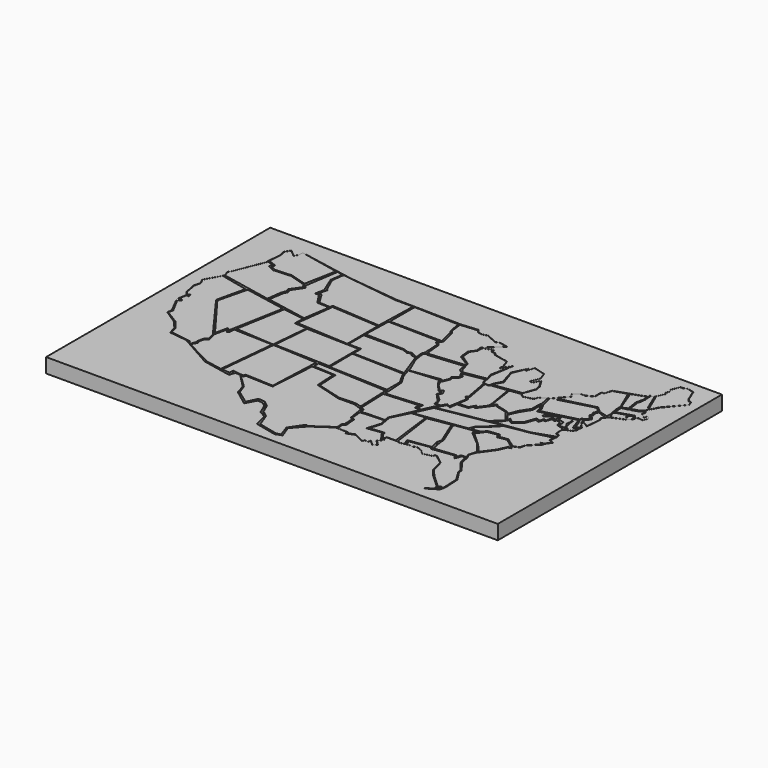
from build123d import *

# Parameters (mm, degrees)
F1_DEPTH = 2.54
F3_W     = 152.4233669043
F3_H     = 92.1892821789
F4_DEPTH = 2.54
F2_W     = 158.5824540816
F2_H     = 98.3682549559
F5_DEPTH = 2.54
F6_DEPTH = 2.54


with BuildPart() as f1:
    # F0 (on Top) → F1 (new body)
    with BuildSketch(Plane.XY):
        Polygon((84.8736539483, 14.1414105892), (85.1722210646, 14.1137503088), (85.0820022567, 16.5194555561), (85.6190174818, 17.1548388898), (85.5037197471, 20.4697679728), (84.5813006163, 21.0174527019), (83.67146559, 26.7047771949), (80.3293138742, 27.7990177274), (74.7444555163, 27.7582518756), (65.4091835022, 30.489532277), (65.0015324354, 37.7865359187), (57.3784038424, 38.0718931556), (56.3592687249, 22.0103338361), (46.6978736222, 22.4179886281), (46.3717505336, 21.7249765992), (45.5564446747, 21.6026809067), (50.1969037666, 17.1075227029), (51.3844042597, 13.8418917523), (56.1962090433, 10.3514352813), (57.8798678478, 13.9738477203), (60.2727457881, 13.7349618599), (62.2702501714, 12.1451122686), (63.656270504, 8.9246472344), (65.8983588219, 7.1903583594), (67.6567181945, 2.5206308346), (74.4307041168, 0.9064042824), (75.9008005261, 1.3099613134), (74.4883567095, 5.374353379), (77.6879787445, 10.0440802053), (78.5527452826, 9.7846509889), align=None)
    extrude(amount=F1_DEPTH)


with BuildPart() as f1b:
    # F0 (on Top) → F1, piece 2 (new body)
    with BuildSketch(Plane.XY):
        Polygon((39.2019487917, 21.3731527328), (41.959669441, 21.1166720837), (42.0232772706, 22.6241739839), (45.8465404809, 22.1621077508), (46.2218225002, 22.9126755148), (56.0278088078, 22.4989198132), (56.7911989107, 40.5912213027), (41.1993376911, 41.4004512131), align=None)
    extrude(amount=F1_DEPTH)


with BuildPart() as f1c:
    # F0 (on Top) → F1, piece 3 (new body)
    with BuildSketch(Plane.XY):
        Polygon((32.8148268163, 22.4877819419), (38.6916063726, 21.3731527328), (40.6889952719, 41.4004512131), (27.0474292338, 41.8383069336), (26.9321767444, 39.8461197184), (26.2197759002, 39.4209623337), (25.918809697, 40.0605127215), (25.3544989973, 40.2674265206), (24.4704131037, 36.1855849624), (25.3168791533, 33.1194959581), (24.2214407772, 32.1595259011), (23.8461568952, 30.36352247), (24.1191011788, 29.3748573399), (23.0687819421, 27.5756958872), align=None)
    extrude(amount=F1_DEPTH)


with BuildPart() as f1d:
    # F0 (on Top) → F1, piece 4 (new body)
    with BuildSketch(Plane.XY):
        Polygon((14.4826462492, 29.9436412752), (21.9434835017, 28.8944467902), (21.7278554059, 28.4238435393), (22.8912197053, 28.0225295573), (23.5356800258, 29.5957718045), (23.3082231134, 30.2023217082), (23.8579101861, 32.4958413839), (24.9004177749, 33.2540310919), (24.1191011788, 36.0841342312), (12.082144618, 52.5437779725), (14.3594136462, 62.5853091478), (4.6070283484, 64.7970042172), (1.7106930027, 59.5505945385), (2.6563503779, 57.6592795551), (2.1497486159, 55.4302297533), (2.8589910362, 51.2423217297), (3.8384213112, 50.0264763832), (4.6827574261, 50.6343990564), (5.0363440544, 49.3536293507), (4.1137486696, 49.6896281838), (3.6629268434, 46.9846986234), (4.9252272584, 46.6691255569), (5.0153918564, 46.308465302), (4.0235840715, 45.5420687795), (6.8637602963, 40.222376585), (6.4580207691, 38.5994166136), (11.371976696, 35.5789139867), (13.9867411926, 32.4231609702), align=None)
    extrude(amount=F1_DEPTH)


with BuildPart() as f1e:
    # F0 (on Top) → F1, piece 5 (new body)
    with BuildSketch(Plane.XY):
        Polygon((12.6084219664, 52.4472929537), (24.0978561342, 37.0402559638), (25.0490423825, 41.4319011491), (25.3531355411, 41.3592718542), (26.0339658707, 40.2741990983), (29.6646207571, 59.8889775574), (15.1317678392, 62.6406222582), align=None)
    extrude(amount=F1_DEPTH)


with BuildPart() as f1f:
    # F0 (on Top) → F1, piece 6 (new body)
    with BuildSketch(Plane.XY):
        Polygon((4.9907113425, 65.410785377), (22.5986987352, 61.8775077164), (23.2802983373, 67.0011863112), (23.9050984383, 68.534784019), (23.5074982047, 69.7843804955), (26.0066967458, 73.3059793711), (25.0410977751, 74.6691823006), (19.2475020885, 76.429978013), (13.1699051708, 76.0323777795), (10.9547069296, 77.1683752537), (11.181906797, 78.4747749567), (8.9099081233, 79.1563764215), (8.9667085558, 78.0771747231), (8.6827082559, 77.9635757208), (4.820310045, 68.3643817902), (4.1955108754, 67.4555823207), align=None)
    extrude(amount=F1_DEPTH)


with BuildPart() as f1g:
    # F0 (on Top) → F1, piece 7 (new body)
    with BuildSketch(Plane.XY):
        Polygon((19.2693395439, 76.9179702953), (25.0410977751, 75.1638114452), (27.1157585084, 86.2862020731), (13.2147632539, 89.1747251153), (13.1545858458, 87.4897539616), (12.3722786084, 86.1658528447), (9.9050039425, 88.2118865848), (8.9232294323, 86.4870214634), (9.3851434067, 84.1774567962), (9.0241273865, 79.7567293048), (11.9727887213, 78.6308795214), (11.811953038, 77.344186604), (13.5912461719, 76.5465058363), align=None)
    extrude(amount=F1_DEPTH)


with BuildPart() as f1h:
    # F0 (on Top) → F1, piece 8 (new body)
    with BuildSketch(Plane.XY):
        Polygon((24.0978561342, 67.2751824708), (23.2470091432, 61.8775077164), (37.6948975027, 59.141950172), (39.1093893427, 68.3617481948), (34.8049812019, 68.5642436147), (32.3360413313, 72.3571032286), (30.9047698975, 72.3928883672), (31.5488427877, 75.613245368), (29.154188931, 81.4692750573), (29.8207694997, 85.8141132781), (27.7824867517, 86.2340778112), (25.9788638109, 74.4778847025), (26.8117636442, 73.4084025025), (24.3070423603, 69.7228834033), (24.7006416321, 68.2558342814), align=None)
    extrude(amount=F1_DEPTH)


with BuildPart() as f1i:
    # F0 (on Top) → F1, piece 9 (new body)
    with BuildSketch(Plane.XY):
        Polygon((39.1708500683, 69.7725042701), (56.3620701432, 68.5642436147), (56.7637554785, 83.1233506271), (50.4713505507, 83.1214636564), (30.2390567958, 85.8141132781), (29.6646207571, 81.5106704831), (31.9664441049, 76.3074681163), (32.412737608, 76.3393491507), (31.5839089453, 72.8646591306), (32.7952690423, 72.9284137487), (35.2179929614, 69.0074339509), (39.1070954502, 68.7524080276), align=None)
    extrude(amount=F1_DEPTH)


with BuildPart() as f1j:
    # F0 (on Top) → F1, piece 10 (new body)
    with BuildSketch(Plane.XY):
        Polygon((30.2390567958, 59.799220413), (27.218202129, 42.6238030195), (40.7980233431, 41.6542105377), (42.0063845813, 54.8852048814), (37.6391112804, 55.1721043885), (37.7506837249, 58.6467944086), align=None)
    extrude(amount=F1_DEPTH)


with BuildPart() as f1k:
    # F0 (on Top) → F1, piece 11 (new body)
    with BuildSketch(Plane.XY):
        Polygon((60.8209259808, 41.2069000304), (60.8209259808, 54.1655123234), (42.3973947763, 54.6738170087), (41.3409657776, 41.8383069336), align=None)
    extrude(amount=F1_DEPTH)


with BuildPart() as f1l:
    # F0 (on Top) → F1, piece 12 (new body)
    with BuildSketch(Plane.XY):
        Polygon((38.0589552224, 55.7386763394), (56.4654916525, 54.6738170087), (56.4228408039, 68.0631436505), (39.6999493241, 69.1316723824), align=None)
    extrude(amount=F1_DEPTH)


with BuildPart() as f1m:
    # F0 (on Top) → F1, piece 13 (new body)
    with BuildSketch(Plane.XY):
        Polygon((61.2623132765, 51.2467893313), (79.4380009174, 50.8505217731), (78.3540830016, 53.9122112095), (76.4931268669, 58.9738897979), (76.2656778097, 59.8591566086), (74.6305137873, 60.2344423532), (73.6789032817, 61.0520243645), (72.5262388587, 60.6499351561), (70.6364139915, 61.4005029202), (56.8488053977, 61.4005029202), (56.8488053977, 54.6738170087), (61.3568648696, 54.6738170087), align=None)
    extrude(amount=F1_DEPTH)


with BuildPart() as f1n:
    # F0 (on Top) → F1, piece 14 (new body)
    with BuildSketch(Plane.XY):
        Polygon((57.118011452, 71.9196347594), (56.8488053977, 62.1622465551), (70.7938904487, 61.8582148776), (72.4851638079, 61.1784756184), (73.6789032817, 61.5212330087), (76.1548869435, 60.3739717864), (75.9084224701, 62.9511475563), (76.3552188873, 63.8234615326), (76.0148018599, 69.5679709315), (74.8233497143, 70.5667734146), (75.2535880597, 71.5242417046), align=None)
    extrude(amount=F1_DEPTH)


with BuildPart() as f1o:
    # F0 (on Top) → F1, piece 15 (new body)
    with BuildSketch(Plane.XY):
        Polygon((57.3464373787, 83.1233506271), (57.3145076632, 72.3312646151), (75.6550505757, 72.107963264), (74.3476673961, 77.6200294495), (73.8066807389, 78.3413425088), (73.0340114822, 82.6148669094), align=None)
    extrude(amount=F1_DEPTH)


with BuildPart() as f1p:
    # F0 (on Top) → F1, piece 16 (new body)
    with BuildSketch(Plane.XY):
        Polygon((76.5266343951, 69.7154477239), (77.0867094398, 63.8496279716), (89.6034687757, 65.06190449), (89.3913209438, 65.7286569476), (85.5423361063, 68.0925920606), (85.1706787944, 71.7457979918), (86.6233184934, 73.6438781023), (86.4175856113, 75.8068487048), (91.6779786348, 80.6458294392), (88.6409580708, 81.1553969979), (87.4791443348, 80.6662142277), (83.6176946759, 82.4563056231), (81.8881690502, 81.9662734866), (80.2451148629, 82.225702703), (79.4380009174, 83.2057669759), (73.5864341259, 82.6869085431), (74.0764662623, 78.5936936736), (75.0565305352, 77.2965475917), (76.2383788824, 72.107963264), (75.4600912333, 70.7819908857), align=None)
    extrude(amount=F1_DEPTH)


with BuildPart() as f1q:
    # F0 (on Top) → F1, piece 17 (new body)
    with BuildSketch(Plane.XY):
        Polygon((61.2623132765, 50.8757866919), (61.3568648696, 40.9132875502), (81.9673314691, 40.1776470244), (81.9673314691, 45.7933209836), (80.1666975021, 49.0617789328), (79.6432346106, 50.2789951861), align=None)
    extrude(amount=F1_DEPTH)


with BuildPart() as f1r:
    # F0 (on Top) → F1, piece 18 (new body)
    with BuildSketch(Plane.XY):
        Polygon((80.4974622818, 28.5177163857), (82.5212970376, 27.8899148107), (82.0718871024, 39.4380627742), (57.650167495, 40.5912213027), (57.6016902924, 38.5551229119), (65.5764043331, 38.0718931556), (65.9898283479, 30.6715530425), (74.7444555163, 28.2938312739), align=None)
    extrude(amount=F1_DEPTH)


with BuildPart() as f1s:
    # F0 (on Top) → F1, piece 19 (new body)
    with BuildSketch(Plane.XY):
        Polygon((92.5004854798, 27.4411197752), (96.5231433511, 36.2204760313), (96.3136181235, 36.3276563585), (94.6117639542, 36.5587025881), (94.7131961584, 38.4070724249), (82.7764570713, 37.542976439), (83.1722393632, 27.3728575558), (84.3663141131, 27.0265769213), (84.4737812877, 25.5698096007), (86.0857740045, 25.5459267646), (86.3007083535, 25.6653353572), (92.7931753383, 25.8071793051), align=None)
    extrude(amount=F1_DEPTH)


with BuildPart() as f1t:
    # F0 (on Top) → F1, piece 20 (new body)
    with BuildSketch(Plane.XY):
        Polygon((97.4363254176, 13.7369123446), (99.4542911649, 12.0993629098), (100.3628075123, 13.0557008088), (98.6143375247, 14.7167387833), (99.9643355608, 16.4188183844), (99.5028780877, 16.4253488147), (99.0717560053, 16.2275526673), (97.2432047129, 18.7237579376), (97.2432047129, 19.4330010563), (91.8759772887, 18.7573548311), (93.3153554797, 23.3261287212), (92.9210087716, 25.5275683233), (84.6282765269, 25.026248768), (84.981008842, 21.0988657211), (86.0134214163, 20.7943543792), (86.3570138046, 16.9687368688), (85.4778513312, 16.2275526673), (85.8421325684, 13.8408001512), (89.4571344005, 13.789641553), (89.466907084, 13.1379365921), (91.4047956467, 13.9010455459), (91.434918344, 14.2022725195), (95.744415968, 12.1992638229), (95.9867871325, 12.9633825272), (97.1985384822, 12.6885389909), align=None)
    extrude(amount=F1_DEPTH)


with BuildPart() as f1u:
    # F0 (on Top) → F1, piece 21 (new body)
    with BuildSketch(Plane.XY):
        Polygon((99.5622426271, 18.1389702704), (102.6472523808, 18.1389702704), (100.6685820898, 33.8572160825), (95.8729237318, 33.4265008569), (92.9343104362, 27.536323294), (93.6884880066, 23.3261287212), (92.5004854798, 19.3502940238), (97.5729376078, 19.8058690876), (97.5729376078, 18.9441926777), (99.2962867022, 16.7846847326), align=None)
    extrude(amount=F1_DEPTH)


with BuildPart() as f1v:
    # F0 (on Top) → F1, piece 22 (new body)
    with BuildSketch(Plane.XY):
        Polygon((77.0031064749, 58.9738897979), (79.6432346106, 52.8970398009), (89.8931995034, 54.2953237891), (90.437926352, 53.7457987666), (91.4329737425, 55.9391565621), (91.0249524518, 57.2135052376), (92.774219811, 58.2364350557), (92.774219811, 59.2158660293), (92.3013910651, 59.3678466976), (91.5752574801, 60.8707666397), (90.24656564, 61.7761909962), (89.7640958428, 64.3241107464), (77.5940716267, 63.1602481008), (77.0671584651, 63.5193080391), (76.4931268669, 62.676928336), align=None)
    extrude(amount=F1_DEPTH)


with BuildPart() as f1w:
    # F0 (on Top) → F1, piece 23 (new body)
    with BuildSketch(Plane.XY):
        Polygon((91.7081609368, 61.1544027925), (99.3654504418, 62.5141039491), (98.5684990883, 64.7455528378), (100.1649647951, 72.4845454097), (98.2482656837, 69.3652108312), (98.003976047, 69.8537826538), (98.2670560479, 70.549055934), (97.1314311028, 73.8807097077), (96.0961803794, 73.8807097077), (92.1017602086, 74.7514590621), (91.9586271048, 75.467094779), (90.312667191, 75.6102204323), (90.1337638497, 76.719455421), (87.0207548141, 75.6460055709), (86.9849696755, 73.7495720387), (85.661046207, 71.7457979918), (85.9830826521, 68.4896558523), (89.740164578, 65.9133717418), (90.77783674, 62.2994154692), align=None)
    extrude(amount=F1_DEPTH)


with BuildPart() as f1x:
    # F0 (on Top) → F1, piece 24 (new body)
    with BuildSketch(Plane.XY):
        Polygon((97.5892469287, 42.1782918274), (99.3354097009, 42.0879758894), (100.3239303827, 43.8426062465), (101.4819726194, 43.1987910347), (102.523393929, 49.3536293507), (101.3865917921, 50.2927266061), (101.975375402, 51.0054647831), (100.4247092301, 59.5819801092), (100.0520214438, 59.5863461494), (99.2402136326, 61.7698468268), (92.273281071, 60.510199262), (92.859454453, 59.5819801092), (93.4095233679, 59.3528328), (93.0794849992, 57.9743944108), (91.6126444936, 56.9109357893), (91.8693393469, 55.9391565621), (90.5677899718, 52.8970398009), (91.3479551673, 51.1129807475), (93.5963010341, 48.935034521), (94.6042835712, 49.4371913373), (95.3417529721, 47.9568643687), (94.6470957057, 46.7073715954), (96.9114500364, 44.5139181581), (97.6231694222, 43.128054589), align=None)
    extrude(amount=F1_DEPTH)


with BuildPart() as f1y:
    # F0 (on Top) → F1, piece 25 (new body)
    with BuildSketch(Plane.XY):
        Polygon((111.736590242, 51.1129807475), (111.3505735993, 51.6161344534), (107.6123258932, 46.5186936291), (106.9864869668, 47.3344438852), (106.1923056841, 45.5928184092), (102.3810374058, 45.2717878693), (102.0550273072, 42.696375289), (100.5499213934, 43.2271026075), (98.7966358662, 40.0734357536), (115.2137517929, 42.9424457252), (118.7498047948, 46.3259741664), (116.8156787753, 48.6803829008), (115.6291923726, 50.1500564927), align=None)
    extrude(amount=F1_DEPTH)


with BuildPart() as f1z:
    # F0 (on Top) → F1, piece 26 (new body)
    with BuildSketch(Plane.XY):
        Polygon((118.9776882529, 43.2477488293), (98.7966358662, 39.7209636867), (95.9867871325, 33.6755398888), (113.7279570103, 36.1826717854), (114.5882084966, 38.2826961577), (118.9776882529, 42.0273207128), align=None)
    extrude(amount=F1_DEPTH)


with BuildPart() as f1ba:
    # F0 (on Top) → F1, piece 27 (new body)
    with BuildSketch(Plane.XY):
        Polygon((103.0099391937, 60.5171360075), (112.2772693634, 61.8410408497), (113.7215271592, 65.8552572131), (113.4147965275, 67.5517409639), (111.736590242, 70.5667734146), (110.34469375, 68.0631436505), (109.4201156011, 68.577164174), (110.7126548886, 71.6499686241), (109.7498163581, 74.2977783084), (105.6577414274, 75.4411444068), (104.8152595758, 72.7331638336), (104.3940186501, 72.853513062), (104.514375329, 73.996886611), (102.468341589, 69.1826939583), (104.2736619711, 63.6463612318), (102.8294041753, 60.9985552728), align=None)
    extrude(amount=F1_DEPTH)


with BuildPart() as f1bb:
    # F0 (on Top) → F1, piece 28 (new body)
    with BuildSketch(Plane.XY):
        Polygon((82.5304612517, 45.8805821836), (82.9943269491, 38.114476949), (95.4426005483, 39.1099341214), (95.3203067183, 36.8270725012), (96.6655611992, 36.8168838322), (98.9994652917, 41.8383069336), (97.3136276007, 41.7687669396), (97.1439555287, 43.465513736), (94.2594856024, 46.6166138649), (94.5872440934, 47.9357205331), (94.2789763212, 48.5388562083), (93.6289280653, 48.324406147), (91.1630096785, 51.0182653118), (89.8931995034, 52.8970398009), (90.1715159416, 53.3951297402), (89.0582501888, 53.5216368735), (79.4380009174, 52.6866875589), (80.5316418409, 49.2709837854), align=None)
    extrude(amount=F1_DEPTH)


with BuildPart() as f1bc:
    # F0 (on Top) → F1, piece 29 (new body)
    with BuildSketch(Plane.XY):
        Polygon((106.9864869668, 48.056807369), (107.6629981399, 47.5380085409), (109.612833681, 50.1967866823), (109.612833681, 51.8355183303), (108.1004366279, 60.5843402445), (102.649576962, 59.9042102695), (102.2452200246, 59.3528328), (100.905738771, 59.5819801092), (102.441072464, 51.0902665555), (102.1902263165, 50.3755286336), (102.9139906168, 49.6115572751), (102.441072464, 45.898925513), (105.835840106, 46.0463576019), align=None)
    extrude(amount=F1_DEPTH)


with BuildPart() as f1bd:
    # F0 (on Top) → F1, piece 30 (new body)
    with BuildSketch(Plane.XY):
        Polygon((115.7198622823, 50.6098270416), (116.8156787753, 49.7809387744), (118.0336251855, 52.9196116328), (119.8608313825, 55.7636059821), (120.3074753284, 55.8911934495), (120.0318818115, 56.2504160426), (120.1169066098, 59.4017878175), (120.3239538816, 59.988959539), (119.5893883705, 63.7903362513), (118.2481060701, 62.7613121491), (117.4174631133, 62.473492386), (116.870973623, 60.9236860446), (113.6887868862, 60.1163385509), (112.0909997345, 61.1428829904), (108.5883045266, 60.6478920208), (109.9864206249, 50.7544295977), (110.612383411, 51.7287228272), (111.2402585882, 52.1526687165), (111.6518846032, 51.6161344534), align=None)
    extrude(amount=F1_DEPTH)


with BuildPart() as f1be:
    # F0 (on Top) → F1, piece 31 (new body)
    with BuildSketch(Plane.XY):
        Polygon((120.7470148802, 59.4017878175), (120.7470148802, 55.7636059821), (118.5855194926, 52.3993000388), (117.1433329582, 49.2366105318), (118.9776882529, 46.8456186354), (119.1041991115, 47.8450283408), (120.9006085992, 46.5166978538), (123.2906877995, 48.581790179), (124.6547849345, 52.4502751685), (126.1752510869, 52.0768345471), (126.5064160422, 53.4251750232), (127.4141818285, 53.2022193074), (127.976462245, 55.4915480316), (128.7834462822, 55.1423784945), (129.1955120066, 55.4206082707), (129.1955120066, 56.465712753), (128.6994218832, 56.8972751498), (125.0345838004, 54.4227498033), (124.7525547337, 56.4184667381), (122.1333207732, 55.7636059821), (121.8739002943, 56.8012050779), (121.6454401686, 57.714972645), align=None)
    extrude(amount=F1_DEPTH)


with BuildPart() as f1bf:
    # F0 (on Top) → F1, piece 32 (new body)
    with BuildSketch(Plane.XY):
        Polygon((129.494222972, 54.3646588922), (129.1955120066, 54.3646588922), (128.3194257769, 54.6735825972), (127.5910619809, 52.6079933227), (126.7373412848, 52.6079933227), (126.4160275459, 51.2318946421), (124.9915267759, 51.5645100823), (123.885772282, 48.4286669288), (120.7470148802, 46.0206302193), (119.3423802056, 46.9230782788), (118.7498047948, 45.5928184092), (116.1409988999, 43.2271026075), (128.6994218832, 45.0018233868), (135.8657777309, 47.4849827588), (135.600495818, 48.5306001558), (134.4172430061, 48.6803829008), (134.2910677195, 52.0448759199), (131.4690560103, 52.9196116328), (131.4690560103, 54.0929708016), (131.0058226956, 54.6967726413), (129.8052406363, 54.8487490192), align=None)
    extrude(amount=F1_DEPTH)


with BuildPart() as f1bg:
    # F0 (on Top) → F1, piece 33 (new body)
    with BuildSketch(Plane.XY):
        Polygon((128.6994218832, 44.726959343), (120.1169066098, 43.2271026075), (119.6044608951, 42.1510338783), (114.8039249028, 38.0139648914), (114.8039249028, 36.3138882782), (117.8402267057, 36.8445040202), (118.7498047948, 38.2602363825), (122.8988543153, 38.7146361172), (123.4285845006, 37.5010409333), (126.3636499643, 38.0139648914), (129.8506798848, 35.5232567072), (131.7537406206, 36.1826717854), (132.2067528963, 38.0139648914), (135.600495818, 41.517406702), (134.4172430061, 41.8931134045), (135.7091609559, 42.1413218426), (136.8974894285, 43.9909212291), (135.4363262653, 44.6361079813), (135.600495818, 46.4778197437), align=None)
    extrude(amount=F1_DEPTH)


with BuildPart() as f1bh:
    # F0 (on Top) → F1, piece 34 (new body)
    with BuildSketch(Plane.XY):
        Polygon((121.7645183205, 30.4322820157), (124.6764585376, 27.1031651646), (127.6963471945, 31.2210580746), (129.2220486108, 34.5885850212), (129.8273323297, 34.3143534437), (129.6567469835, 35.0154004991), (126.2614595258, 37.5053608513), (123.0910047889, 36.9473546743), (122.5345879793, 38.3151806891), (119.0052628517, 37.6565977931), (116.9141423168, 34.8051647096), align=None)
    extrude(amount=F1_DEPTH)


with BuildPart() as f1bi:
    # F0 (on Top) → F1, piece 35 (new body)
    with BuildSketch(Plane.XY):
        Polygon((116.2261217832, 34.8051647096), (116.9141423168, 36.1826717854), (109.612833681, 35.1508715212), (109.4562067615, 34.8051647096), (112.9162088036, 26.3494346291), (112.9162088036, 24.9897297472), (113.7279570103, 20.9042560309), (121.2619692087, 21.7075292021), (121.7645183205, 20.7235198468), (122.1656501293, 22.4706381559), (124.1336688399, 22.4706381559), (123.4285845006, 23.8161198795), (124.2943257093, 26.6878195107), (121.4226260781, 30.4322820157), align=None)
    extrude(amount=F1_DEPTH)


with BuildPart() as f1bj:
    # F0 (on Top) → F1, piece 36 (new body)
    with BuildSketch(Plane.XY):
        Polygon((108.8305339217, 34.9404625595), (101.2044250965, 33.6755398888), (103.4000091263, 18.1389702704), (104.6124249697, 17.7200622857), (105.773511393, 18.1951674933), (104.9473277229, 20.2142374321), (112.8596749533, 21.3323879405), (112.0532229543, 24.5360583067), (112.4698370695, 26.0696578771), align=None)
    extrude(amount=F1_DEPTH)


with BuildPart() as f1bk:
    # F0 (on Top) → F1, piece 37 (new body)
    with BuildSketch(Plane.XY):
        Polygon((122.171767056, 64.6132901311), (121.8739002943, 65.8552572131), (120.1169066098, 63.7903362513), (121.0673266429, 59.988959539), (122.2784891725, 57.714972645), (122.2784891725, 56.8970367312), (122.5829720497, 56.4313456415), (134.2910677195, 59.4017878175), (134.2910677195, 60.245379968), (135.0953872556, 60.245379968), (136.1167151809, 61.4194180681), (134.7023844719, 63.1809961529), (135.2324661263, 63.7903362513), (134.7023844719, 64.7855773568), (135.1431687544, 66.0703989085), (133.9719295502, 67.5292015076), (133.0145150423, 67.5292015076), align=None)
    extrude(amount=F1_DEPTH)


with BuildPart() as f1bl:
    # F0 (on Top) → F1, piece 38 (new body)
    with BuildSketch(Plane.XY):
        Polygon((106.4181029797, 18.5948647559), (106.8735346198, 18.1951674933), (107.8155487776, 18.3857250959), (108.1701666117, 18.0479902774), (109.7337454557, 18.7784098089), (111.8578761816, 17.8989116102), (113.302141428, 16.5449175984), (116.5065914392, 17.3422694206), (116.5065914392, 18.0192664266), (117.1234101057, 18.1951674933), (120.5928102136, 15.4443448409), (121.8424066901, 10.871947743), (124.1336688399, 8.3159497008), (128.7454366684, 4.0200068615), (129.649117589, 4.7429525293), (129.649117589, 3.6384521518), (126.9983202219, 1.128224656), (130.0296122686, 3.1659529609), (130.403727293, 4.7954004258), (130.1542967558, 10.34243498), (127.6137977838, 14.457333833), (127.7569234371, 15.2445323765), (124.7153217707, 19.0906578111), (123.9726543426, 22.0409408212), (122.7935701609, 22.1558660269), (121.9425275922, 19.8155120015), (120.8574548364, 21.2155245245), (113.3760213852, 20.2394612134), (112.9162088036, 21.0238080472), (105.8831982007, 19.8986956337), align=None)
    extrude(amount=F1_DEPTH)


with BuildPart() as f1bm:
    # F0 (on Top) → F1, piece 39 (new body)
    with BuildSketch(Plane.XY):
        Polygon((125.513793295, 55.3259009037), (127.8410404932, 56.8972751498), (128.6994218832, 57.2338838699), (129.2926181942, 57.0247122199), (129.6540208979, 56.8972751498), (129.9416422844, 55.7636059821), (131.9865405975, 55.2404299378), (131.9865405975, 53.422088243), (132.2067528963, 53.0959479511), (134.0220704555, 52.9196116328), (133.8821202517, 53.4712299705), (133.8151097298, 54.2218014598), (133.0109387636, 55.1600083709), (133.2207397817, 56.465712753), (132.9841315746, 57.3983117938), (133.654930389, 57.7000708835), (133.4398239851, 57.0900440216), (134.0697705746, 53.9135299623), (134.4172430061, 53.1153922753), (135.0325401759, 53.2023443292), (135.600495818, 52.3611868647), (136.8204479961, 52.6706989753), (137.0318382978, 53.2701872289), (137.5758270248, 54.0929708016), (137.4129497627, 54.7349568946), (135.8657777309, 54.3424263596), (134.2910677195, 58.8407977877), (125.513793295, 56.6139295697), align=None)
    extrude(amount=F1_DEPTH)


with BuildPart() as f1bn:
    # F0 (on Top) → F1, piece 40 (new body)
    with BuildSketch(Plane.XY):
        Polygon((136.3064199686, 55.0366565585), (137.8148645163, 55.8400787413), (136.982768774, 56.5565228462), (136.381983757, 57.511780411), (135.7064992189, 58.3531103428), (135.3550851345, 59.5894642174), (134.5908641815, 59.5894642174), (134.7023844719, 58.889746666), (134.9129676819, 58.4741458297), (135.8080655336, 56.411664933), (135.8080655336, 55.881947279), (136.0753625631, 55.7636059821), align=None)
    extrude(amount=F1_DEPTH)


with BuildPart() as f1bo:
    # F0 (on Top) → F1, piece 41 (new body)
    with BuildSketch(Plane.XY):
        Polygon((138.7969255447, 64.7428110242), (135.8080655336, 65.8552572131), (135.3550851345, 64.7855773568), (135.7064992189, 63.7903362513), (135.4724615812, 63.0945414305), (136.982768774, 61.4891909063), (135.7156187296, 59.998895973), (135.7873380184, 59.2816434801), (135.922819376, 58.9070804417), (136.2894177437, 58.5484541953), (137.1660530567, 58.2695193589), (138.2419317961, 57.4805438519), (138.7835294008, 62.7323612571), (138.2814124108, 63.35775833), align=None)
    extrude(amount=F1_DEPTH)


with BuildPart() as f1bp:
    # F0 (on Top) → F1, piece 42 (new body)
    with BuildSketch(Plane.XY):
        Polygon((135.152027009, 79.5023366803), (130.6981295347, 78.0933350325), (129.8758238554, 75.5494013429), (129.0949881077, 75.5494013429), (129.0949881077, 72.5414901972), (126.6851574183, 71.29599154), (124.877795577, 71.29599154), (123.0709289499, 69.8576867595), (124.3441338724, 68.7500908971), (122.3929584726, 66.5071734143), (122.6742044091, 65.3822794557), (133.7328629772, 68.1471647692), (135.7549875975, 66.3880631328), (138.8073696856, 65.52739484), (138.9755308628, 66.7340904474), (138.2958826011, 70.2552869916), (138.2958826011, 72.2562993027), align=None)
    extrude(amount=F1_DEPTH)


with BuildPart() as f1bq:
    # F0 (on Top) → F1, piece 43 (new body)
    with BuildSketch(Plane.XY):
        Polygon((140.2021690263, 65.9648672454), (140.428600175, 65.7678885824), (143.6086662111, 66.9919997454), (143.6086662111, 67.692157116), (144.5156234152, 66.9031701832), (144.414554603, 67.3074131658), (145.6695795073, 68.7500908971), (144.6126229302, 69.9254835558), (143.435707701, 69.4148525265), (143.7760144472, 68.0537341841), (143.3058577917, 68.4627363464), (143.2580654747, 68.1197869216), (142.9011076689, 69.5475041866), (139.2760543327, 68.4585380702), (139.0733685583, 67.5527150543), (139.2653137445, 67.1103149652), (139.9676203728, 65.9648672454), align=None)
    extrude(amount=F1_DEPTH)


with BuildPart() as f1br:
    # F0 (on Top) → F1, piece 44 (new body)
    with BuildSketch(Plane.XY):
        Polygon((141.1197334528, 72.2716897726), (138.9755308628, 71.7604905367), (138.932928443, 68.7500908971), (144.7265297174, 70.5818906426), (145.869814905, 69.4148525265), (146.6009318837, 70.2552869916), (146.8181312085, 70.2552869916), (147.069528698, 69.8576867595), (148.0493247515, 69.8576867595), (148.7735211849, 71.5190917253), (148.1281398799, 72.292720174), (147.4279565399, 72.292720174), (147.864729166, 71.2492913008), (147.3251283169, 71.2492913008), (146.6861218214, 71.6610923409), (145.976126194, 72.4224377419), (145.487362296, 72.4224377419), (145.5783946669, 73.0756703366), (145.6695795073, 73.1804892435), (145.6695795073, 73.7969603321), (145.2519297609, 74.1602852949), (144.272133708, 73.2940882444), (141.6461930806, 72.4170317256), (141.5031254293, 72.5414901972), (141.1197334528, 72.5414901972), align=None)
    extrude(amount=F1_DEPTH)


with BuildPart() as f1bs:
    # F0 (on Top) → F1, piece 45 (new body)
    with BuildSketch(Plane.XY):
        Polygon((141.8475869123, 82.8183472883), (140.9037709236, 82.0145383477), (140.9037709236, 80.3762897849), (141.0726250326, 79.9871105909), (140.6927378933, 77.2611059924), (140.428600175, 76.9574740861), (140.5802675676, 76.5951479532), (141.095250845, 72.9509815574), (143.7760144472, 73.7381950021), (143.925015135, 73.7381950021), (144.2974672131, 74.166336561), (144.9317690318, 74.6317803899), (145.3069863451, 75.9096336522), (144.414554603, 76.6859844875), align=None)
    extrude(amount=F1_DEPTH)


with BuildPart() as f1bt:
    # F0 (on Top) → F1, piece 46 (new body)
    with BuildSketch(Plane.XY):
        Polygon((139.6697610617, 81.1954140663), (135.7549875975, 79.7805637121), (138.6485396596, 72.0064787535), (140.5802675676, 72.8446021676), (139.9676203728, 76.9574740861), (140.5802675676, 79.69545573), (140.5802675676, 82.2420605957), align=None)
    extrude(amount=F1_DEPTH)


with BuildPart() as f1bu:
    # F0 (on Top) → F1, piece 47 (new body)
    with BuildSketch(Plane.XY):
        Polygon((143.393933773, 85.9306454659), (142.1050131339, 83.2011625209), (144.9317690318, 76.6859844875), (145.6695795073, 76.0441429304), (146.8181312085, 78.5792253272), (152.2845327854, 84.8629698157), (151.6017585432, 86.5371972322), (150.9341150522, 86.2577259541), (149.9969065189, 87.4363258481), (148.4065055847, 91.4265215397), (145.9785401821, 92.0475721359), (144.9317690318, 91.3727253203), (143.925015135, 91.5165501642), (142.7684724331, 88.6649489403), (143.393933773, 87.9455655813), (142.9011076689, 86.5371972322), align=None)
    extrude(amount=F1_DEPTH)


with BuildPart() as f4:
    # F3 (on Top) → F4 (new body)
    with BuildSketch(Plane.XY):
        with Locations((76.2116834521, 46.0946410894)):
            Rectangle(F3_W, F3_H)
    extrude(amount=-F4_DEPTH)

    # F2 (on Top) → F5 (join)
    with BuildSketch(Plane.XY):
        with Locations((76.1993899941, 46.0922904313)):
            Rectangle(F2_W, F2_H)
        Polygon((2.5233302731, 57.6197877526), (1.6004205681, 59.586815536), (4.9043744802, 65.4332190752), (4.1162841953, 67.4557834864), (4.7481986694, 68.3519691229), (8.5789794102, 77.9771730304), (8.894382976, 78.1515687704), (8.7894154713, 79.5521885157), (9.2794131488, 84.0969160199), (8.7225027382, 86.4985659719), (9.9071701989, 88.3439779282), (12.3399784788, 86.3190591335), (13.0683649331, 87.4990448356), (13.1834037602, 89.1994684935), (13.3242849261, 89.1994684935), (33.0280326307, 85.5452865362), (50.5589656532, 83.5231617093), (73.6407265067, 83.0827727914), (79.320423305, 83.576656878), (80.3569406271, 82.3183134198), (81.865042448, 82.1011289954), (83.5534930229, 82.6160088181), (87.5297412276, 80.8108448982), (88.6140912771, 81.3111960888), (91.8624929067, 80.7087599024), (86.9510248303, 76.0556980968), (87.1835238034, 75.810287369), (90.2178809047, 76.8626853824), (90.3928950429, 75.6765082479), (92.0028612018, 75.6765082479), (92.1827355736, 74.9008084795), (96.0924476385, 73.9764869213), (97.1753373742, 73.9764869213), (98.4262600541, 70.6018730998), (98.2702921968, 69.7608774003), (100.2626270056, 72.7868452668), (98.999209702, 64.7310316563), (100.1245970694, 59.8778515653), (102.2185602754, 59.6363210671), (102.5015261905, 61.1621041471), (103.8204729557, 63.6539980769), (102.1526008844, 69.3116933107), (104.5309454203, 74.2508769035), (104.5309454203, 72.9033797979), (104.7498349039, 72.8627853885), (105.6426391006, 75.5443871021), (109.7903326154, 74.3594989181), (110.7685565948, 71.6649144888), (109.5545887947, 68.6251148582), (110.3317328838, 68.314756277), (111.7616444826, 70.7704350352), (113.6130914092, 67.7051395178), (113.9595732093, 66.0073831677), (112.2368872166, 61.2737759948), (113.7095838785, 60.2607093751), (116.8123930693, 61.0528513789), (117.3497363925, 62.5421479344), (118.229098618, 62.8441050649), (119.5564195514, 63.8627484441), (120.065741241, 63.8627484441), (122.5990131497, 66.9199675322), (124.289162457, 68.7559768558), (123.0282709002, 69.8690712452), (124.8859539628, 71.3505893946), (126.6447454691, 71.4087039232), (128.914475441, 72.618059814), (128.914475441, 75.6698176265), (129.8235654831, 75.6698176265), (130.5632207107, 78.2589760229), (136.243507266, 80.1870971918), (139.5362913609, 81.3111960888), (140.6270269535, 82.4960622477), (140.8435553312, 82.1011289954), (142.0449465513, 83.1745564938), (143.2785838842, 85.9083607793), (142.7322244638, 86.5198519249), (143.2640105486, 87.9332795739), (142.6376104355, 88.6907950044), (143.8887119293, 91.6565358639), (144.8775976896, 91.6565358639), (145.9717154503, 92.1042710543), (148.479372263, 91.5304124355), (150.1421928406, 87.5022783875), (150.9716212749, 86.4000245929), (151.7021656036, 86.6533890367), (152.3464024067, 84.8710611463), (147.0895409584, 78.5060822964), (145.6750929356, 75.8670195937), (145.3794687986, 75.810287369), (145.138241827, 74.5095652251), (145.8403390105, 73.8632454852), (145.8403390105, 73.1661617756), (145.6750929356, 72.9866549515), (145.5842897287, 72.4970341553), (146.0169106722, 72.4970341553), (146.7218474425, 71.7080615904), (147.3543643951, 71.3168308139), (147.8049308062, 71.2778121233), (147.3848968744, 72.3124966025), (148.1451243162, 72.3124966025), (148.8041728735, 71.5146884322), (148.1154902985, 69.7843074314), (147.0463722944, 69.7843074314), (146.8093395233, 70.2084228396), (146.6359049082, 70.2084228396), (145.8931416273, 69.3116933107), (145.7561999559, 68.5772150755), (144.456744194, 67.28181988), (144.5914953947, 66.8163225055), (143.6283588409, 67.64215976), (143.7018811703, 66.9227465987), (139.6793574095, 65.24669379), (138.3925080299, 63.3952692151), (138.9035731554, 62.7283006907), (138.3925080299, 57.368490845), (136.0325962305, 58.6233101785), (135.8736713728, 58.3244236082), (136.4194992627, 57.612087735), (137.0276808739, 56.6520243883), (137.9786580801, 55.8946058154), (137.5773847103, 54.78335917), (137.7934515476, 54.0888309479), (137.3125807428, 53.1916271021), (137.0004293712, 52.6092182549), (135.5555355549, 52.1904565394), (134.3567696296, 51.271901262), (134.5485895872, 48.7713292241), (135.7013881207, 48.6078113317), (136.0308585843, 47.4710077082), (135.6961131096, 44.7497703135), (137.2040536037, 43.9415653973), (135.8347088099, 41.9952496886), (135.8347088099, 41.3889102638), (132.3525756598, 37.9414260387), (131.9646090269, 36.1409597099), (130.0178468227, 35.336304456), (130.3263201268, 34.2719493513), (129.3289867847, 33.9829004146), (128.0879080296, 31.1365276575), (124.3585720658, 25.9795561433), (123.7175986171, 23.881804198), (124.4459822774, 22.4250331521), (125.075802207, 19.2138925195), (128.0809096767, 15.292059479), (127.8839856386, 14.4785167649), (130.4913014174, 10.432892479), (130.760550499, 4.7799730673), (130.3685605526, 2.9914821498), (126.8651336432, 0.8635037229), (126.5446394682, 0.8635037229), (129.4144839048, 3.6750729196), (129.4144839048, 4.2723491788), (128.672082396, 3.7034834732), (123.922765255, 8.0534173176), (121.5409114957, 10.8052687719), (120.4554587603, 15.3722437099), (117.1049550176, 17.9905910045), (116.5770068765, 17.9229564965), (116.5770068765, 17.229994759), (113.2983192801, 16.4820216596), (111.8173673749, 17.8524889052), (109.7079962492, 18.6396166682), (108.1767529249, 17.9046206176), (107.8588469658, 18.3195056448), (106.8170070648, 18.1251186877), (106.3270121813, 18.1251186877), (104.6427282275, 17.6369764935), (103.3870279789, 17.9658699781), (99.6796488762, 17.9658699781), (99.4346514344, 16.7208593339), (100.1605838537, 16.4820216596), (98.8309085369, 14.7224999964), (100.5074605346, 13.0459517241), (99.4263764182, 11.9648652055), (97.4768474698, 13.639732264), (97.2668454051, 12.6028526574), (96.0183218122, 12.8959026188), (95.8093363873, 12.0055314604), (91.9749364257, 13.7963909656), (89.3416777253, 12.7742728218), (89.2204120755, 13.6231500655), (84.9587023258, 13.7963909656), (78.7740200758, 9.5520028844), (75.0570595264, 5.3723370656), (76.6286030412, 1.0942623485), (74.4165653913, 0.2816740575), (66.8064877391, 2.0109927282), (65.627835691, 6.7256055772), (63.1832256913, 8.1661818549), (61.742644757, 11.6148339584), (60.0837990642, 12.880794704), (58.3317838609, 12.880794704), (56.4411702243, 9.3533070529), (50.9456917644, 13.4923188016), (49.9713356178, 16.8542335107), (45.0719930232, 21.9097491354), (43.3145053685, 21.9097491354), (42.6670126617, 19.9672654271), (32.5383469462, 22.0022480935), (20.6322688609, 28.7597421557), (14.387213625, 29.5315664262), (13.566794236, 32.3623383375), (11.1397085711, 35.2403782308), (6.1575500295, 38.5035462677), (6.4651877619, 40.0888435543), (3.713775659, 45.4878397286), (4.6741743572, 46.3444106281), (3.4022950567, 46.6818474233), (3.9355596527, 49.614649266), (4.2033838108, 49.9442815781), (4.6360227279, 49.6970564127), (4.5742169023, 50.3048114479), (3.7604437675, 49.8824752867), (2.7715545148, 51.1803925037), (1.918317168, 55.3959570825), align=None, mode=Mode.SUBTRACT)
    extrude(amount=F5_DEPTH)

    # F6 (add): a face of the model
    f6_faces = [f4.faces().sort_by_distance(p)[0] for p in [
        (76.1993899941, 93.4102799634, 0),
    ]]
    extrude(f6_faces, amount=F6_DEPTH)


solid = Compound([f1.part, f1b.part, f1c.part, f1d.part, f1e.part, f1f.part, f1g.part, f1h.part, f1i.part, f1j.part, f1k.part, f1l.part, f1m.part, f1n.part, f1o.part, f1p.part, f1q.part, f1r.part, f1s.part, f1t.part, f1u.part, f1v.part, f1w.part, f1x.part, f1y.part, f1z.part, f1ba.part, f1bb.part, f1bc.part, f1bd.part, f1be.part, f1bf.part, f1bg.part, f1bh.part, f1bi.part, f1bj.part, f1bk.part, f1bl.part, f1bm.part, f1bn.part, f1bo.part, f1bp.part, f1bq.part, f1br.part, f1bs.part, f1bt.part, f1bu.part, f4.part])
